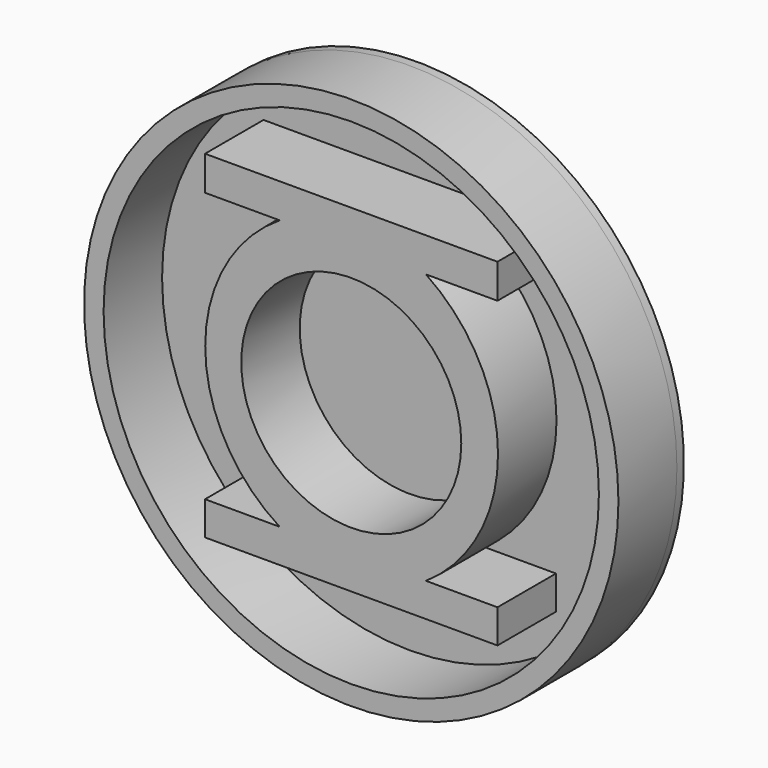
from build123d import *

# Parameters (mm, degrees)
F0_R     = 92.815735633
F0_R_2   = 86.0311555183
F1_DEPTH = 25.4
F0_R_3   = 38.21812987
F2_R     = 92.71
F3_DEPTH = 3.175


with BuildPart() as f1:
    # F0 (on Front) → F1 (new body)
    with BuildSketch(Plane.XZ):
        Circle(F0_R)
        Circle(F0_R_2, mode=Mode.SUBTRACT)
    extrude(amount=F1_DEPTH)



with BuildPart() as f1b:
    # F0 (on Front) → F1, piece 2 (new body)
    with BuildSketch(Plane.XZ):
        with BuildLine():
            Line((50.8, 59.6587392047), (-50.8, 59.6587392047))
            Line((-50.8, 59.6587392047), (-50.8, 47.720739051))
            Line((-50.8, 47.720739051), (-24.8520022743, 47.720739051))
            ThreePointArc((-24.8520022743, 47.720739051), (-50.7246708671, 0.8577388972), (-24.8520022743, -46.0052612565))
            Line((-24.8520022743, -46.0052612565), (-50.8, -46.0052612565))
            Line((-50.8, -46.0052612565), (-50.8, -57.6892601803))
            Line((-50.8, -57.6892601803), (50.8, -57.6892601803))
            Line((50.8, -57.6892601803), (50.8, -46.0052612565))
            Line((50.8, -46.0052612565), (25.9479958039, -46.0052612565))
            ThreePointArc((25.9479958039, -46.0052612565), (50.9828195519, 0.8577388972), (25.9479958039, 47.720739051))
            Line((25.9479958039, 47.720739051), (50.8, 47.720739051))
            Line((50.8, 47.720739051), (50.8, 59.6587392047))
        make_face()
        Circle(F0_R_3, mode=Mode.SUBTRACT)
    extrude(amount=F1_DEPTH)


with BuildPart() as f1_1:
    add(f1.part)

    add(f1b.part)  # F3 merges F1b
    # F2 (on face) → F3 (join)
    with BuildSketch(Plane(origin=(0, 0, 0), x_dir=(-1, 0, 0), z_dir=(0, 1, 0))):
        Circle(F2_R)
    extrude(amount=F3_DEPTH)


solid = f1_1.part
